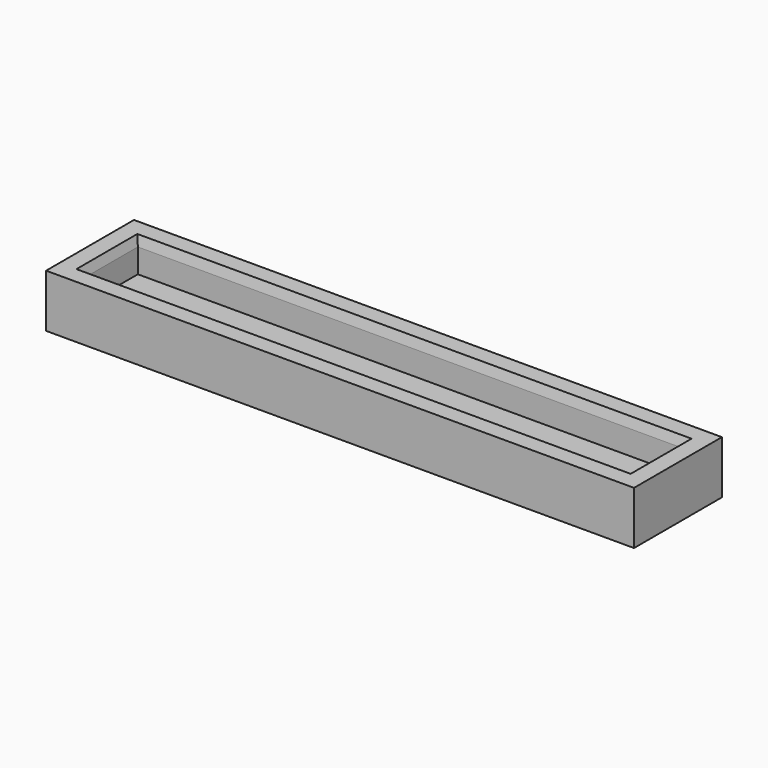
from build123d import *

# Parameters (mm, degrees)
SKETCH_W      = 61
SKETCH_H      = 11.4
SKETCH_W_2    = 57
SKETCH_H_2    = 7.4
PAD_DEPTH     = 3.5
SKETCH001_W   = 61
SKETCH001_H   = 11.4
PAD001_DEPTH  = 2
CHAMFER_SIZE2 = 1
CHAMFER_SIZE  = 0.25


with BuildPart() as part:
    # Sketch → Pad (new body)
    with BuildSketch(Plane.XY):
        Rectangle(SKETCH_W, SKETCH_H)
        Rectangle(SKETCH_W_2, SKETCH_H_2, mode=Mode.SUBTRACT)
    extrude(amount=PAD_DEPTH)

    # Sketch001 (on Face9 of Pad) → Pad001 (join)
    with BuildSketch(Plane(origin=(0, 0, 0), x_dir=(1, 0, 0), z_dir=(0, 0, -1))):
        Rectangle(SKETCH001_W, SKETCH001_H)
    extrude(amount=PAD001_DEPTH)

    # Chamfer
    chamfer_edges = [part.edges().sort_by_distance(p)[0] for p in [
        (0, 3.7, 3.5),
        (-28.5, 0, 3.5),
        (0, -3.7, 3.5),
        (28.5, 0, 3.5),
    ]]
    chamfer_side = part.faces().sort_by_distance((29.879439, 0, 3.5))[0]
    chamfer(chamfer_edges, length=CHAMFER_SIZE, length2=CHAMFER_SIZE2, reference=chamfer_side)


solid = part.part
